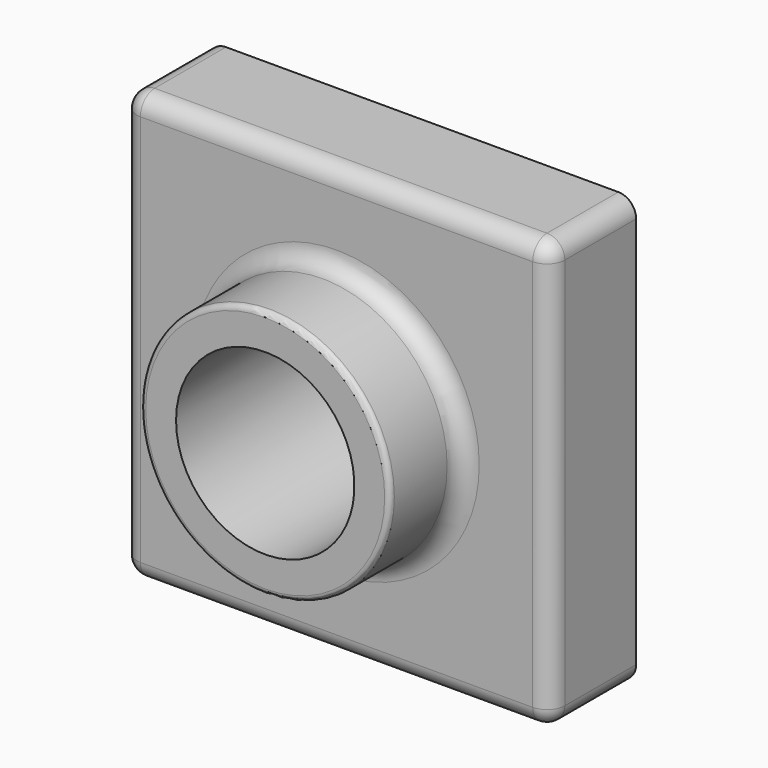
from build123d import *

# Parameters (mm, degrees)
F0_W     = 120
F0_H     = 120
F1_DEPTH = 30
F2_R     = 35
F2_R_2   = 25
F3_DEPTH = 25
F4_R     = 25
F5_DEPTH = 55.001
F6_R     = 5
F7_R     = 1.5
F8_T     = -2.5


with BuildPart() as f1:
    # F0 (on Front) → F1 (new body)
    with BuildSketch(Plane.XZ):
        Rectangle(F0_W, F0_H)
    extrude(amount=F1_DEPTH)

    # F2 (on face) → F3 (join)
    with BuildSketch(Plane.XZ.offset(30)):
        Circle(F2_R)
        Circle(F2_R_2, mode=Mode.SUBTRACT)
    extrude(amount=F3_DEPTH)

    # F4 (on face) → F5 (cut, through all)
    with BuildSketch(Plane(origin=(0, 0, 0), x_dir=(-1, 0, 0), z_dir=(0, 1, 0))):
        Circle(F4_R)
    extrude(amount=-F5_DEPTH, mode=Mode.SUBTRACT)

    # F6
    f6_edges = [f1.edges().sort_by_distance(p)[0] for p in [
        (60, -15, 60),
        (60, -15, -60),
        (60, -30, 0),
        (0, -30, -60),
        (-60, -30, 0),
        (0, -30, 60),
        (-60, -15, 60),
        (-60, -15, -60),
        (-35, -30, 0),
    ]]
    fillet(f6_edges, radius=F6_R)

    # F7
    f7_edges = [f1.edges().sort_by_distance(p)[0] for p in [
        (-35, -55, 0),
    ]]
    fillet(f7_edges, radius=F7_R)

    # F8
    f8_openings = [f1.faces().sort_by_distance(p)[0] for p in [
        (0, 0, 58.302944),
    ]]
    offset(amount=F8_T, openings=f8_openings)


solid = f1.part
